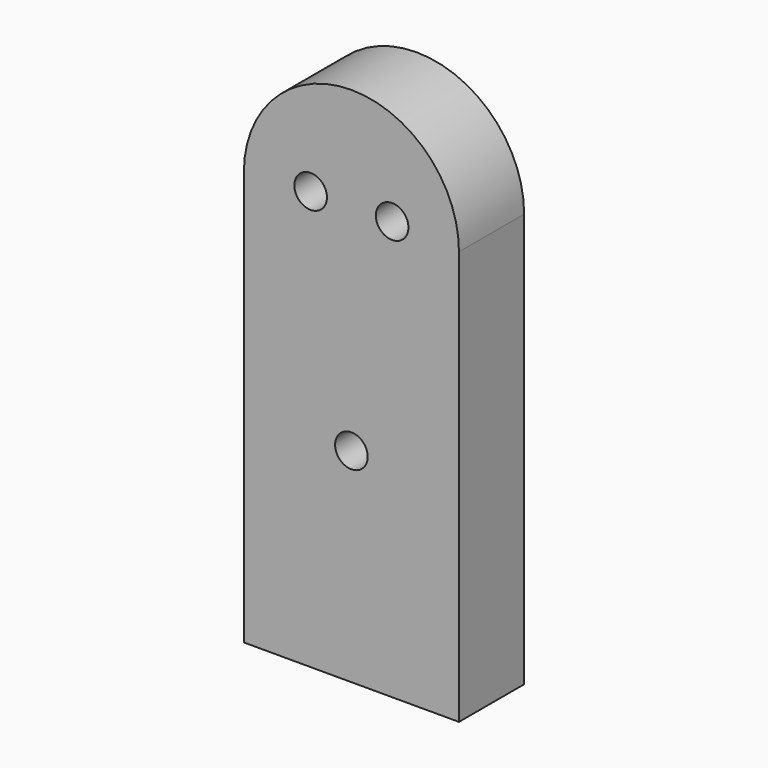
from build123d import *

# Parameters (mm, degrees)
F0_R     = 1
F1_DEPTH = 5


with BuildPart() as f1:
    # F0 (on Front) → F1 (new body)
    with BuildSketch(Plane.XZ):
        with BuildLine():
            Line((0, 25.4), (0, 0))
            Line((0, 0), (13.2, 0))
            Line((13.2, 0), (13.2, 25.4))
            ThreePointArc((13.2, 25.4), (6.6, 32), (0, 25.4))
        make_face()
        with Locations((6.6, 12.5)):
            Circle(F0_R, mode=Mode.SUBTRACT)
        with Locations((4.1, 25.7)):
            Circle(F0_R, mode=Mode.SUBTRACT)
        with Locations((9.1, 25.7)):
            Circle(F0_R, mode=Mode.SUBTRACT)
    extrude(amount=F1_DEPTH)


solid = f1.part
